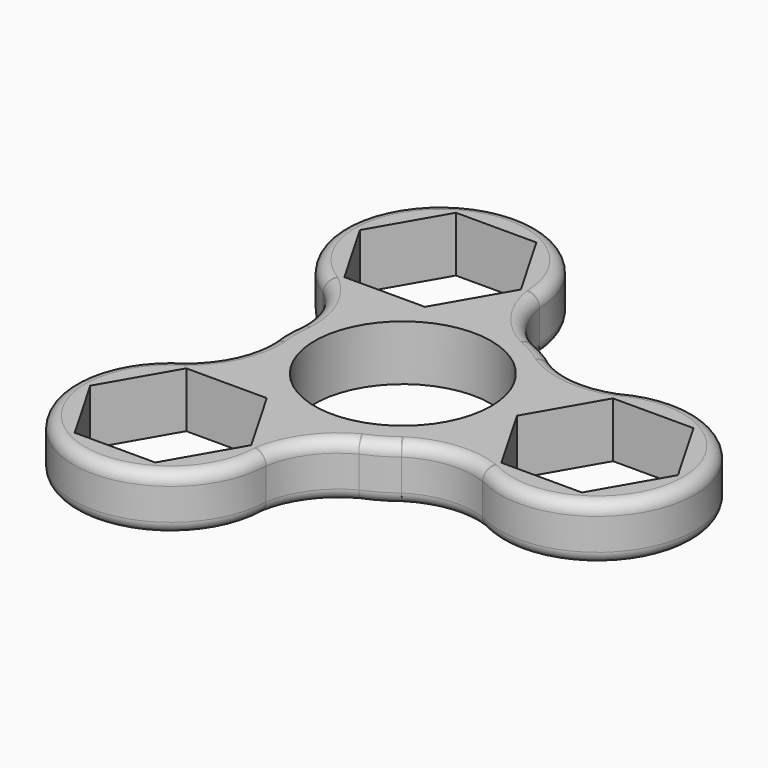
from build123d import *

# Parameters (mm, degrees)
F0_R     = 11.175
F1_DEPTH = 7
F2_R     = 1.5
F3_R     = 1.5


with BuildPart() as f1:
    # F0 (on Top) → F1 (new body)
    with BuildSketch(Plane.XY):
        with BuildLine():
            ThreePointArc((18.74733, 10.826125), (13.90015, 10.191447), (9.27886, 11.785701))
            ThreePointArc((9.27886, 11.785701), (7.5, 12.990381), (5.567286, 13.928579))
            ThreePointArc((5.567286, 13.928579), (1.875977, 17.133607), (0.002035, 21.648726))
            ThreePointArc((0.002035, 21.648726), (-18.475723, 32.000891), (-18.749364, 10.822601))
            ThreePointArc((-18.749364, 10.822601), (-15.776127, 6.94216), (-14.846147, 2.142878))
            ThreePointArc((-14.846147, 2.142878), (-15, 0), (-14.846147, -2.142878))
            ThreePointArc((-14.846147, -2.142878), (-15.776127, -6.94216), (-18.749364, -10.822601))
            ThreePointArc((-18.749364, -10.822601), (-18.475723, -32.000891), (0.002035, -21.648726))
            ThreePointArc((0.002035, -21.648726), (1.875977, -17.133607), (5.567286, -13.928579))
            ThreePointArc((5.567286, -13.928579), (7.5, -12.990381), (9.27886, -11.785701))
            ThreePointArc((9.27886, -11.785701), (13.90015, -10.191447), (18.74733, -10.826125))
            ThreePointArc((18.74733, -10.826125), (36.951446, 0), (18.74733, 10.826125))
        make_face()
        Polygon((-17.410216, -12.505378), (-7.219983, -12.505378), (-2.124867, -21.330378), (-7.219983, -30.155378), (-17.410216, -30.155378), (-22.505332, -21.330378), align=None, mode=Mode.SUBTRACT)
        Circle(F0_R, mode=Mode.SUBTRACT)
        Polygon((-2.124867, 21.330378), (-7.219983, 12.505378), (-17.410216, 12.505378), (-22.505332, 21.330378), (-17.410216, 30.155378), (-7.219983, 30.155378), align=None, mode=Mode.SUBTRACT)
        Polygon((14.439967, 0), (19.535083, 8.825), (29.725315, 8.825), (34.820431, 0), (29.725315, -8.825), (19.535083, -8.825), align=None, mode=Mode.SUBTRACT)
    extrude(amount=F1_DEPTH)

    # F2
    f2_edges = [f1.edges().sort_by_distance(p)[0] for p in [
        (1.875977, 17.133607, 7),
        (-18.475723, 32.000891, 7),
        (-15.776127, 6.94216, 7),
        (-15, 0, 7),
        (-15.776127, -6.94216, 7),
        (-18.475723, -32.000891, 7),
        (1.875977, -17.133607, 7),
        (7.5, -12.990381, 7),
        (13.90015, -10.191447, 7),
        (36.951446, 0, 7),
        (13.90015, 10.191447, 7),
        (7.5, 12.990381, 7),
    ]]
    fillet(f2_edges, radius=F2_R)

    # F3
    f3_edges = [f1.edges().sort_by_distance(p)[0] for p in [
        (-18.475723, 32.000891, 0),
        (1.875977, 17.133607, 0),
        (7.5, 12.990381, 0),
        (13.90015, 10.191447, 0),
        (36.951446, 0, 0),
        (13.90015, -10.191447, 0),
        (7.5, -12.990381, 0),
        (1.875977, -17.133607, 0),
        (-18.475723, -32.000891, 0),
        (-15.776127, -6.94216, 0),
        (-15, 0, 0),
        (-15.776127, 6.94216, 0),
    ]]
    fillet(f3_edges, radius=F3_R)


solid = f1.part
